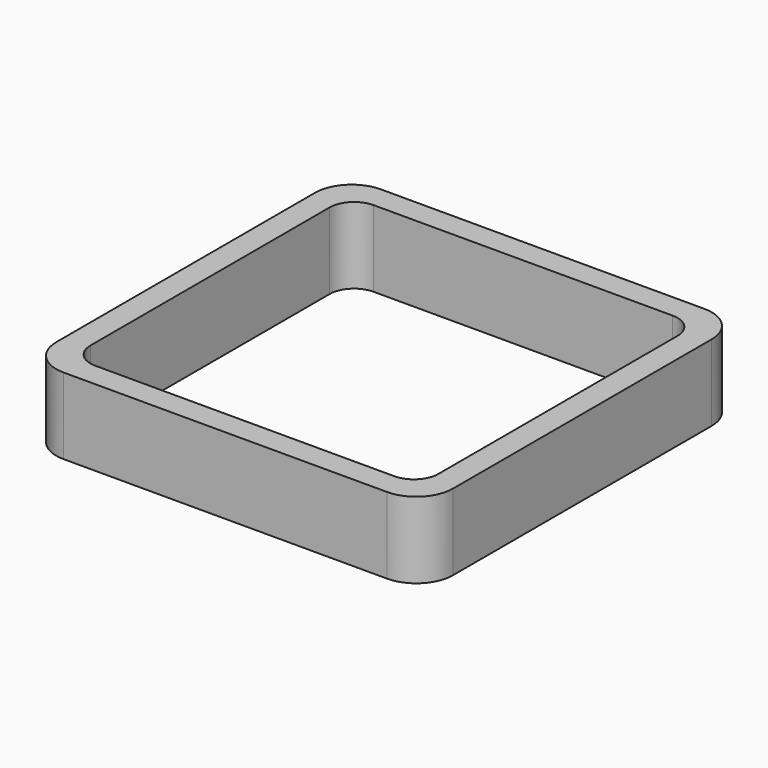
from build123d import *

# Parameters (mm, degrees)
EXTRUDE_DEPTH = 50


with BuildPart() as part:
    # Sketch → Extrude (new body)
    with BuildSketch(Plane.XY):
        with BuildLine():
            Line((-106, 130), (106, 130))
            ThreePointArc((130, 106), (122.970563, 122.970563), (106, 130))
            Line((130, 106), (130, -106))
            ThreePointArc((106, -130), (122.970563, -122.970563), (130, -106))
            Line((106, -130), (-106, -130))
            ThreePointArc((-130, -106), (-122.970563, -122.970563), (-106, -130))
            Line((-130, -106), (-130, 106))
            ThreePointArc((-106, 130), (-122.970563, 122.970563), (-130, 106))
        make_face()
        with BuildLine():
            Line((-98, 114), (98, 114))
            ThreePointArc((114, 98), (109.313708, 109.313708), (98, 114))
            Line((114, 98), (114, -98))
            ThreePointArc((98, -114), (109.313708, -109.313708), (114, -98))
            Line((98, -114), (-98, -114))
            ThreePointArc((-114, -98), (-109.313708, -109.313708), (-98, -114))
            Line((-114, -98), (-114, 98))
            ThreePointArc((-98, 114), (-109.313708, 109.313708), (-114, 98))
        make_face(mode=Mode.SUBTRACT)
    extrude(amount=EXTRUDE_DEPTH)


solid = part.part
